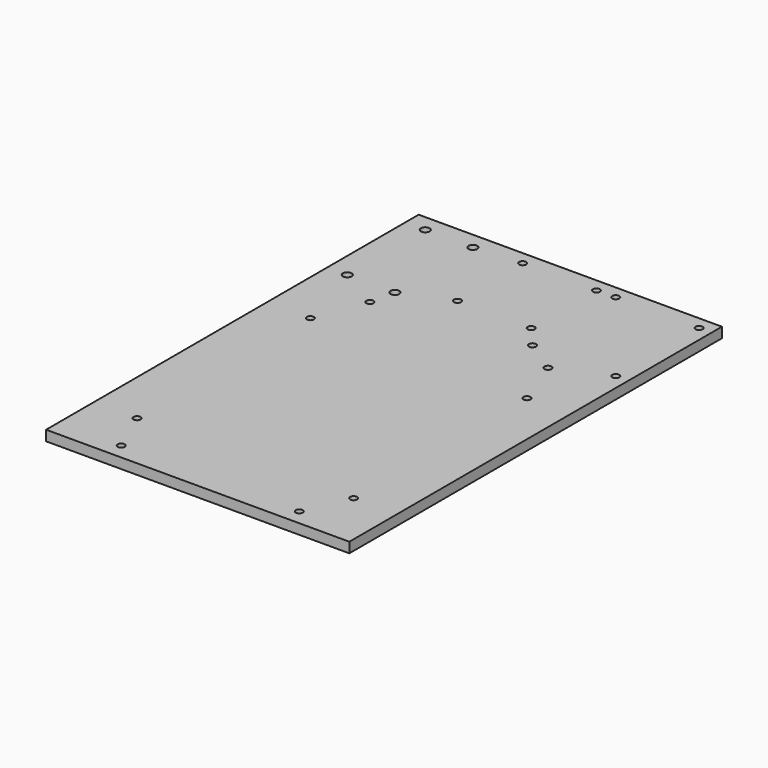
from build123d import *

# Parameters (mm, degrees)
F0_W     = 177.8
F0_H     = 273.05
F0_R     = 2.0701
F0_R_2   = 2.5527
F1_DEPTH = 6


with BuildPart() as f1:
    # F0 (on Top) → F1 (new body)
    with BuildSketch(Plane.XY):
        Rectangle(F0_W, F0_H)
        with Locations((-52.197, -127.3302)):
            Circle(F0_R, mode=Mode.SUBTRACT)
        with Locations((-63.5, -101.6)):
            Circle(F0_R, mode=Mode.SUBTRACT)
        with Locations((52.197, -127.3302)):
            Circle(F0_R, mode=Mode.SUBTRACT)
        with Locations((63.5, -101.6)):
            Circle(F0_R, mode=Mode.SUBTRACT)
        with Locations((-63.5, 25.4)):
            Circle(F0_R, mode=Mode.SUBTRACT)
        with Locations((-52.197, 54.9402)):
            Circle(F0_R, mode=Mode.SUBTRACT)
        with Locations((-77.1525, 69.5325)):
            Circle(F0_R_2, mode=Mode.SUBTRACT)
        with Locations((-49.2125, 69.5325)):
            Circle(F0_R_2, mode=Mode.SUBTRACT)
        with Locations((-77.1525, 126.6825)):
            Circle(F0_R_2, mode=Mode.SUBTRACT)
        with Locations((-49.2125, 126.6825)):
            Circle(F0_R_2, mode=Mode.SUBTRACT)
        with Locations((-21.6154, 80.8609)):
            Circle(F0_R, mode=Mode.SUBTRACT)
        with Locations((-21.6154, 128.6891)):
            Circle(F0_R, mode=Mode.SUBTRACT)
        with Locations((32.7279, 67.9069)):
            Circle(F0_R, mode=Mode.SUBTRACT)
        with Locations((63.5, 25.4)):
            Circle(F0_R, mode=Mode.SUBTRACT)
        with Locations((52.197, 54.9402)):
            Circle(F0_R, mode=Mode.SUBTRACT)
        with Locations((81.5721, 67.9069)):
            Circle(F0_R, mode=Mode.SUBTRACT)
        with Locations((21.6154, 80.8609)):
            Circle(F0_R, mode=Mode.SUBTRACT)
        with Locations((21.6154, 128.6891)):
            Circle(F0_R, mode=Mode.SUBTRACT)
        with Locations((32.7279, 128.9431)):
            Circle(F0_R, mode=Mode.SUBTRACT)
        with Locations((81.5721, 128.9431)):
            Circle(F0_R, mode=Mode.SUBTRACT)
    extrude(amount=F1_DEPTH)


solid = f1.part
